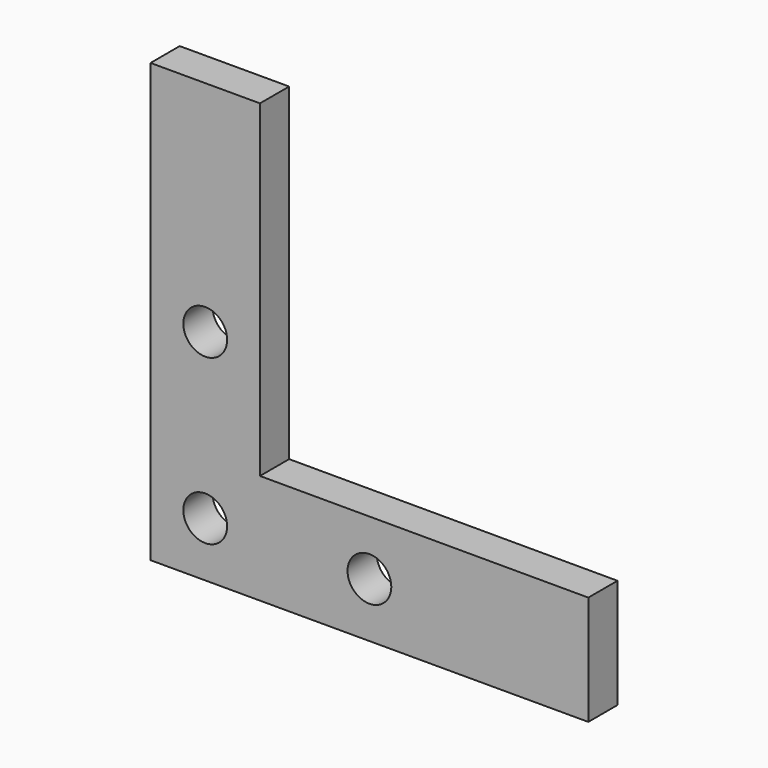
from build123d import *

# Parameters (mm, degrees)
F0_R     = 6
F1_DEPTH = 10


with BuildPart() as f1:
    # F0 (on Front) → F1 (new body)
    with BuildSketch(Plane.XZ):
        Polygon((-30, -29.915381), (-30, 60), (-60, 60), (-60, -60), (60, -60), (60, -30), align=None)
        with Locations((-45, -45)):
            Circle(F0_R, mode=Mode.SUBTRACT)
        with Locations((0, -45)):
            Circle(F0_R, mode=Mode.SUBTRACT)
        with Locations((-45, 0)):
            Circle(F0_R, mode=Mode.SUBTRACT)
    extrude(amount=-F1_DEPTH)


solid = f1.part
